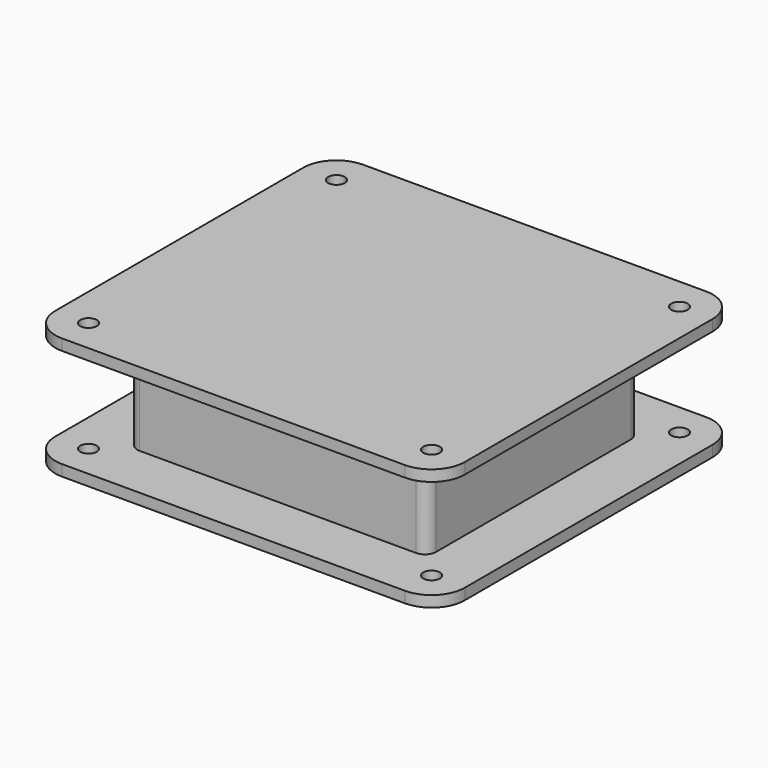
from build123d import *

# Parameters (mm, degrees)
F0_W      = 48
F0_H      = 42
F1_DEPTH  = 20
F3_DEPTH  = 25
F5_W      = 30
F5_H      = 1
F6_DEPTH  = 2
F7_R      = 1.5
F8_DEPTH  = 2
F9_R      = 1.5
F10_DEPTH = 2


with BuildPart() as f1:
    # F0 (on Top) → F1 (new body)
    with BuildSketch(Plane.XY):
        with BuildLine():
            ThreePointArc((-25, 24), (-26.414214, 23.414214), (-27, 22))
            Line((-27, 22), (-27, -22))
            ThreePointArc((-27, -22), (-26.414214, -23.414214), (-25, -24))
            Line((-25, -24), (25, -24))
            ThreePointArc((25, -24), (26.414214, -23.414214), (27, -22))
            Line((27, -22), (27, 22))
            ThreePointArc((27, 22), (26.414214, 23.414214), (25, 24))
            Line((25, 24), (-25, 24))
        make_face()
        Rectangle(F0_W, F0_H, mode=Mode.SUBTRACT)
    extrude(amount=F1_DEPTH)

    # F2 (on face) → F3 (cut)
    with BuildSketch(Plane(origin=(0, 24, 0), x_dir=(-1, 0, 0), z_dir=(0, 1, 0))):
        with BuildLine():
            ThreePointArc((-16.5, 14), (-15.914214, 12.585786), (-14.5, 12))
            Line((-14.5, 12), (-0.5, 12))
            ThreePointArc((-0.5, 12), (0.914214, 12.585786), (1.5, 14))
            Line((1.5, 14), (1.5, 17))
            ThreePointArc((1.5, 17), (0.914214, 18.414214), (-0.5, 19))
            Line((-0.5, 19), (-14.5, 19))
            ThreePointArc((-14.5, 19), (-15.914214, 18.414214), (-16.5, 17))
            Line((-16.5, 17), (-16.5, 14))
        make_face()
    extrude(amount=-F3_DEPTH, mode=Mode.SUBTRACT)

    # F5 (on offset) → F6 (join)
    with BuildSketch(Plane.XY.offset(8)):
        Polygon((24, -21), (24, 12), (23, 12), (23, -20), (8, -20), (8, -21), align=None)
        with Locations((0, 20.5)):
            Rectangle(F5_W, F5_H)
        Polygon((-23, 12), (-24, 12), (-24, -21), (-2, -21), (-2, -20), (-23, -20), align=None)
    extrude(amount=-F6_DEPTH)


with BuildPart() as f8:
    # F7 (on face) → F8 (new body)
    with BuildSketch(Plane.XY.offset(20)):
        with BuildLine():
            ThreePointArc((37, 28), (35.242641, 32.242641), (31, 34))
            Line((31, 34), (-31, 34))
            ThreePointArc((-31, 34), (-35.242641, 32.242641), (-37, 28))
            Line((-37, 28), (-37, -28))
            ThreePointArc((-37, -28), (-35.242641, -32.242641), (-31, -34))
            Line((-31, -34), (31, -34))
            ThreePointArc((31, -34), (35.242641, -32.242641), (37, -28))
            Line((37, -28), (37, 28))
        make_face()
        with Locations((-31, -28)):
            Circle(F7_R, mode=Mode.SUBTRACT)
        with Locations((31, -28)):
            Circle(F7_R, mode=Mode.SUBTRACT)
        with Locations((-31, 28)):
            Circle(F7_R, mode=Mode.SUBTRACT)
        with Locations((31, 28)):
            Circle(F7_R, mode=Mode.SUBTRACT)
    extrude(amount=F8_DEPTH)


with BuildPart() as f10:
    # F9 (on face) → F10 (new body)
    with BuildSketch(Plane(origin=(0, 0, 0), x_dir=(1, 0, 0), z_dir=(0, 0, -1))):
        with BuildLine():
            Line((-31, -34), (31, -34))
            ThreePointArc((31, -34), (35.242641, -32.242641), (37, -28))
            Line((37, -28), (37, 28))
            ThreePointArc((37, 28), (35.242641, 32.242641), (31, 34))
            Line((31, 34), (-31, 34))
            ThreePointArc((-31, 34), (-35.242641, 32.242641), (-37, 28))
            Line((-37, 28), (-37, -28))
            ThreePointArc((-37, -28), (-35.242641, -32.242641), (-31, -34))
        make_face()
        with Locations((-31, -28)):
            Circle(F9_R, mode=Mode.SUBTRACT)
        with Locations((31, -28)):
            Circle(F9_R, mode=Mode.SUBTRACT)
        with Locations((-31, 28)):
            Circle(F9_R, mode=Mode.SUBTRACT)
        with BuildLine():
            Line((27, 22), (27, -22))
            ThreePointArc((27, -22), (26.414214, -23.414214), (25, -24))
            Line((25, -24), (-25, -24))
            ThreePointArc((-25, -24), (-26.414214, -23.414214), (-27, -22))
            Line((-27, -22), (-27, 22))
            ThreePointArc((-27, 22), (-26.414214, 23.414214), (-25, 24))
            Line((-25, 24), (25, 24))
            ThreePointArc((25, 24), (26.414214, 23.414214), (27, 22))
        make_face(mode=Mode.SUBTRACT)
        with Locations((31, 28)):
            Circle(F9_R, mode=Mode.SUBTRACT)
    extrude(amount=-F10_DEPTH)


solid = Compound([f1.part, f8.part, f10.part])
